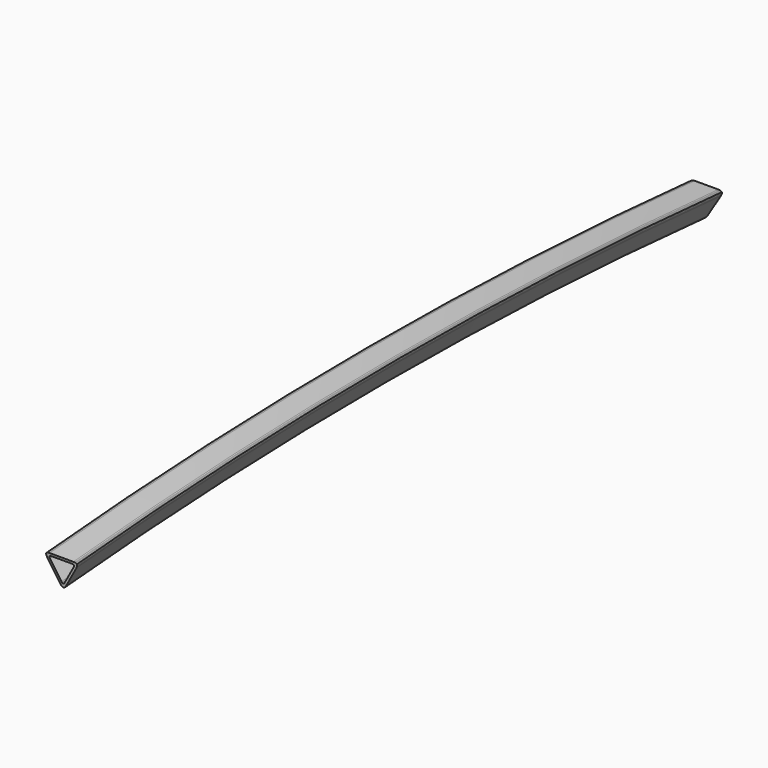
from build123d import *

# Parameters (mm, degrees)
F1_ANGLE = 10


with BuildPart() as f1:
    # F0 (on Front) → F1 (revolve, symmetric)
    with BuildSketch(Plane.XZ) as f1_sk:
        Polygon((0, 9), (-10.266832, 9), (-11.535978, 8.875), (-12.164396, 8.75), (-12.767949, 8.5), (-13.267949, 8), (-13.450962, 7.316987), (-13.365692, 6.669295), (-13.159736, 6.062569), (-12.633416, 4.900956), (-2.366584, -12.881718), (-1.623758, -13.918331), (-1.201296, -14.400057), (-0.683013, -14.797749), (0, -14.980762), (0.683013, -14.797749), (1.201296, -14.400057), (1.623758, -13.918331), (2.366584, -12.881718), (12.633416, 4.900956), (13.159736, 6.062569), (13.365692, 6.669295), (13.450962, 7.316987), (13.267949, 8), (12.767949, 8.5), (12.164396, 8.75), (11.535978, 8.875), (10.266832, 9), align=None)
        Polygon((-8.803203, 7), (0, 7), (8.803203, 7), (9.535945, 6.927831), (9.898762, 6.855662), (10.247223, 6.711325), (10.535898, 6.42265), (10.641561, 6.028312), (10.59233, 5.654367), (10.473421, 5.304074), (10.16955, 4.633416), (5.767949, -2.990381), (1.366348, -10.614178), (0.937477, -11.212667), (0.693568, -11.490791), (0.394338, -11.720399), (0, -11.826062), (-0.394338, -11.720399), (-0.693568, -11.490791), (-0.937477, -11.212667), (-1.366348, -10.614178), (-5.767949, -2.990381), (-10.16955, 4.633416), (-10.473421, 5.304074), (-10.59233, 5.654367), (-10.641561, 6.028312), (-10.535898, 6.42265), (-10.247223, 6.711325), (-9.898762, 6.855662), (-9.535945, 6.927831), align=None, mode=Mode.SUBTRACT)
    revolve(axis=Axis((3.747747, 0, -3991), (1, 0, 0)), revolution_arc=F1_ANGLE / 2)
    revolve(f1_sk.sketch, axis=Axis((3.747747, 0, -3991), (-1, 0, 0)), revolution_arc=F1_ANGLE / 2)


solid = f1.part
